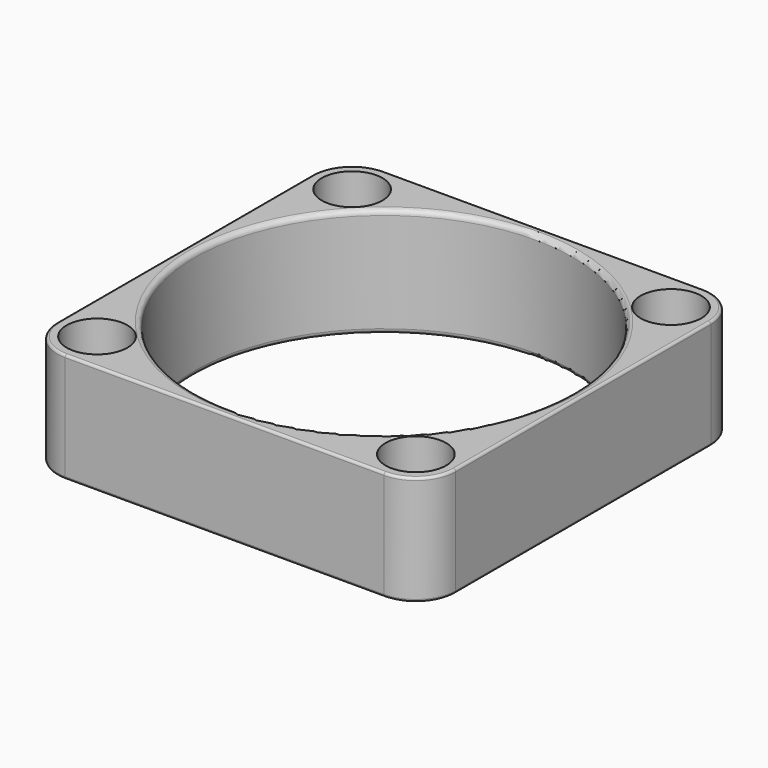
from build123d import *

# Parameters (mm, degrees)
SKETCH060_W         = 40
SKETCH060_H         = 40
PAD022_DEPTH        = 11
SKETCH059_R         = 19
POCKET017_DEPTH     = 11.001
HOLE005_D           = 3.9
HOLE005_DEPTH       = 25
HOLE005_CBORE_D     = 6.1
HOLE005_CBORE_DEPTH = 3.9
FILLET024_R         = 4
FILLET026_R         = 0.5
FILLET025_R         = 0.25


with BuildPart() as part:
    # Sketch060 → Pad022 (new body)
    with BuildSketch(Plane.XY):
        Rectangle(SKETCH060_W, SKETCH060_H)
    extrude(amount=PAD022_DEPTH)

    # Sketch059 (on Face6 of Pad022) → Pocket017 (cut, through all)
    with BuildSketch(Plane.XY.offset(11)):
        Circle(SKETCH059_R)
    extrude(amount=-POCKET017_DEPTH, mode=Mode.SUBTRACT)

    # Hole005
    with Locations(Plane.XY.offset(11)):
        with Locations((16, 16), (16, -16), (-16, 16), (-16, -16)):
            CounterBoreHole(HOLE005_D / 2, HOLE005_CBORE_D / 2, HOLE005_CBORE_DEPTH, depth=HOLE005_DEPTH)

    # Fillet024
    fillet024_edges = [part.edges().sort_by_distance(p)[0] for p in [
        (20, 20, 5.5),
        (-20, 20, 5.5),
        (-20, -20, 5.5),
        (20, -20, 5.5),
    ]]
    fillet(fillet024_edges, radius=FILLET024_R)

    # Fillet026
    fillet026_edges = [part.edges().sort_by_distance(p)[0] for p in [
        (-19, 0, 11),
        (19, 0, 5.5),
        (-19, 0, 0),
    ]]
    fillet(fillet026_edges, radius=FILLET026_R)

    # Fillet025
    fillet025_edges = [part.edges().sort_by_distance(p)[0] for p in [
        (0, -20, 0),
        (16, -20, 5.5),
        (-16, -20, 5.5),
        (0, -20, 11),
        (20, 0, 0),
        (20, 16, 5.5),
        (20, -16, 5.5),
        (20, 0, 11),
        (0, 20, 0),
        (-16, 20, 5.5),
        (16, 20, 5.5),
        (0, 20, 11),
        (-20, 0, 0),
        (-20, -16, 5.5),
        (-20, 16, 5.5),
        (-20, 0, 11),
    ]]
    fillet(fillet025_edges, radius=FILLET025_R)


solid = part.part
